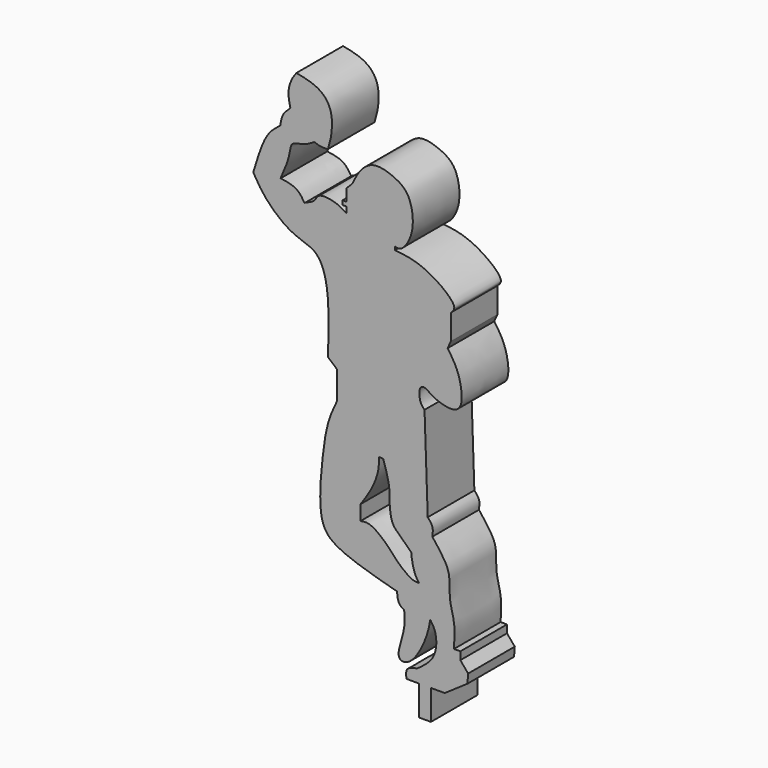
from build123d import *

# Parameters (mm, degrees)
F0_W     = 1.2808465399
F0_H     = 3.2528243028
F1_DEPTH = 6.34


with BuildPart() as f1:
    # F0 (on Front) → F1 (new body)
    with BuildSketch(Plane.XZ):
        with BuildLine():
            add(Edge.make_bspline(
                [(-6.7776860669, 1.3776483247), (-7.2234603457, 1.2909326007), (-8.0743075484, 1.125418719), (-7.9850199205, 0.3629822004), (-7.9425117001, 0)],
                knots=[0, 0, 0, 0, 0.5239181341, 1, 1, 1, 1], degree=3))
            Line((-7.9425117001, 0), (-6.5613263287, 0))
            Line((-6.5613263287, 0), (-5.2804797888, 0))
            Line((-5.2804797888, 0), (-3.7796341348, 0))
            Line((-3.7796341348, 0), (-1.3127436396, 1.6925429227))
            Line((-1.3127436396, 1.6925429227), (-1.2356528314, 2.6947180741))
            Line((-1.2356528314, 2.6947180741), (-2.0836470649, 3.696893109))
            Line((-2.0836470649, 3.696893109), (-2.0836470649, 4.5448862948))
            Line((-2.0836470649, 4.5448862948), (-2.7774595656, 4.5448862948))
            add(Edge.make_bspline(
                [(-2.7774595656, 4.5448862948), (-2.7222918755, 5.4227665899), (-2.6171633368, 7.095671009), (-3.3418714879, 9.0647313949), (-3.1895937315, 11.1185620313), (-3.5661824677, 12.5226659789), (-4.5589625844, 13.7968401), (-5.1287151873, 14.528083615)],
                knots=[0, 0, 0, 0, 0.2208538869, 0.4208631238, 0.6150791168, 0.7790954196, 1, 1, 1, 1], degree=3))
            add(Edge.make_bspline(
                [(-5.1287151873, 14.528083615), (-5.0843041296, 14.8663420012), (-4.9972753618, 15.5291996788), (-5.4218763651, 15.9956514421), (-5.6298021227, 16.2240713835)],
                knots=[0, 0, 0, 0, 0.5103031883, 1, 1, 1, 1], degree=3))
            Line((-5.6298021227, 16.2240713835), (-5.9767086059, 26.3999961317))
            add(Edge.make_bspline(
                [(-5.9767086059, 26.3999961317), (-6.1345706405, 26.5459935085), (-6.5090194045, 26.892299303), (-6.6380961915, 28.4273694482), (-5.8892792504, 28.6339642055), (-5.0967846196, 27.8496412338), (-2.9462288603, 27.1864042532), (-1.6935919751, 28.0392956056), (-2.1433240874, 31.2088312454), (-3.0434896338, 32.4954295626), (-3.4712727647, 33.1068560481)],
                knots=[0, 0, 0, 0, 0.0887577471, 0.2105333863, 0.2847342937, 0.393212341, 0.5469207023, 0.6596399946, 0.8382516756, 1, 1, 1, 1], degree=3))
            Line((-3.4712727647, 33.1068560481), (-3.1125457026, 33.8876135647))
            Line((-3.1125457026, 33.8876135647), (-3.1125457026, 36.6379059851))
            add(Edge.make_bspline(
                [(-3.1125457026, 36.6379059851), (-2.9242706246, 36.816100008), (-2.424179038, 37.2894145462), (-4.0468332885, 38.9269143997), (-6.759011061, 40.3903422302), (-8.4321410003, 40.5511578163), (-9.2090247199, 40.6258292496)],
                knots=[0, 0, 0, 0, 0.1501364865, 0.3987888069, 0.7208398601, 1, 1, 1, 1], degree=3))
            Line((-9.2090247199, 40.6258292496), (-9.2090247199, 40.9925356507))
            add(Edge.make_bspline(
                [(-9.2090247199, 40.9925356507), (-9.0042836623, 40.9378253354), (-8.4149612837, 40.7803483081), (-6.9474231725, 42.9394160939), (-7.4419385897, 46.4591291567), (-9.1064865307, 47.6192620157), (-11.6272430043, 48.4378875285), (-13.1998511262, 46.8659793565), (-13.6052353603, 45.9530216087), (-13.7928435579, 45.530512929)],
                knots=[0, 0, 0, 0, 0.0826928045, 0.2380212391, 0.4274132015, 0.571526221, 0.7308515859, 0.8754405213, 1, 1, 1, 1], degree=3))
            Line((-13.7928435579, 45.530512929), (-14.4804157317, 44.8429398239))
            Line((-14.4804157317, 44.8429398239), (-14.4804157317, 43.5594730079))
            Line((-14.4804157317, 43.5594730079), (-14.8929599673, 43.5594730079))
            Line((-14.8929599673, 43.5594730079), (-14.8929599673, 43.1010909379))
            Line((-14.8929599673, 43.1010909379), (-14.4804157317, 43.1010909379))
            Line((-14.4804157317, 43.1010909379), (-14.4804157317, 42.4593538046))
            add(Edge.make_bspline(
                [(-14.4804157317, 42.4593538046), (-14.8571961778, 42.699844745), (-15.6436727796, 43.2018360228), (-17.6518789594, 43.4153809515), (-17.8380897009, 42.3469828314), (-18.9262205482, 42.0669953128), (-19.0183967352, 41.9551357627)],
                knots=[0, 0, 0, 0, 0.2495868987, 0.5209778212, 0.7197200287, 0.9369146526, 0.9369146526, 0.9369146526, 0.9369146526], degree=3))
            add(Edge.make_bspline(
                [(-19.0183967352, 41.9551357627), (-19.2771846319, 42.3572771528), (-19.8261713987, 43.2103707651), (-21.0069857299, 43.3787766294), (-21.6311737895, 43.467797339)],
                knots=[0, 0, 0, 0, 0.4713918665, 1, 1, 1, 1], degree=3))
            add(Edge.make_bspline(
                [(-21.6311737895, 43.467797339), (-21.261176445, 44.3217445242), (-20.6419167076, 45.7509848081), (-20.5443555782, 47.0749587473), (-20.0721625641, 47.3698835796), (-18.9532225125, 47.5267016677), (-18.2985894995, 47.9347867053), (-17.964117229, 48.1432899833)],
                knots=[0, 0, 0, 0, 0.2925402351, 0.489620782, 0.612532734, 0.8020309798, 1, 1, 1, 1], degree=3))
            add(Edge.make_bspline(
                [(-17.964117229, 48.1432899833), (-17.7283110743, 48.0565091036), (-17.2540926878, 47.8819882614), (-16.7417068114, 47.917122863), (-16.4841059595, 47.9347867053)],
                knots=[0, 0, 0, 0, 0.4972522394, 1, 1, 1, 1], degree=3))
            add(Edge.make_bspline(
                [(-16.4841059595, 47.9347867053), (-16.3508402803, 48.3747236264), (-16.0544834787, 49.3530572801), (-15.9482535449, 51.6243077123), (-16.93973462, 53.1586117555), (-18.4586786752, 53.842507887), (-19.437907688, 54.0207635328), (-19.9183057994, 54.1082136333)],
                knots=[0, 0, 0, 0, 0.186962934, 0.4157689921, 0.6180052423, 0.8125979135, 1, 1, 1, 1], degree=3))
            add(Edge.make_bspline(
                [(-19.9183057994, 54.1082136333), (-20.0892704668, 53.8754460058), (-20.4671656101, 53.3609434641), (-20.8945875679, 52.0398497722), (-20.6824038605, 51.0504799491), (-20.5724388361, 50.5377352238)],
                knots=[0, 0, 0, 0, 0.284700429, 0.6292932395, 1, 1, 1, 1], degree=3))
            add(Edge.make_bspline(
                [(-20.5724388361, 50.5377352238), (-20.8767073715, 50.2578751595), (-21.4800686114, 49.7029156559), (-21.6021464823, 48.9125958799), (-21.6626618057, 48.5208258033)],
                knots=[0, 0, 0, 0, 0.5042891642, 1, 1, 1, 1], degree=3))
            add(Edge.make_bspline(
                [(-21.6626618057, 48.5208258033), (-22.0911120554, 48.1806338043), (-22.9883761393, 47.4682008845), (-23.8278366025, 45.6306762926), (-24.3330200442, 43.9686563308), (-24.6062595397, 43.069716543)],
                knots=[0, 0, 0, 0, 0.295575469, 0.6189966107, 1, 1, 1, 1], degree=3))
            add(Edge.make_bspline(
                [(-24.6062595397, 43.069716543), (-24.2088613706, 42.3943300533), (-23.3573277559, 40.9471308877), (-20.8834350039, 38.796575858), (-19.092937599, 38.2207451839), (-17.8771301181, 37.7588553364), (-16.9223054993, 36.5178417531), (-16.304212218, 33.4348004163), (-16.4183104534, 30.0145111495), (-16.4841059595, 28.042178601)],
                knots=[0, 0, 0, 0, 0.1414851406, 0.303170378, 0.4261666022, 0.5250294059, 0.6315409101, 0.7875256158, 1, 1, 1, 1], degree=3))
            Line((-16.4841059595, 28.042178601), (-15.4783679172, 27.1670408547))
            Line((-15.4783679172, 27.1670408547), (-15.4783679172, 24.1778809577))
            add(Edge.make_bspline(
                [(-15.4783679172, 24.1778809577), (-15.819948896, 23.4628340345), (-16.6054142494, 21.818583859), (-17.160909052, 17.8298393788), (-17.5813935603, 12.1158867751), (-15.573659095, 9.8434809807), (-11.4976484067, 8.7314972431), (-8.9733516797, 8.0428393558)],
                knots=[0, 0, 0, 0, 0.1543664225, 0.3549655401, 0.5849931188, 0.7429838654, 1, 1, 1, 1], degree=3))
            add(Edge.make_bspline(
                [(-8.9733516797, 8.0428393558), (-8.9334954044, 7.6382117185), (-8.8615238429, 6.9075442728), (-8.395744175, 6.6286117251), (-8.1879030913, 6.5041459166)],
                knots=[0, 0, 0, 0, 0.5537781103, 1, 1, 1, 1], degree=3))
            add(Edge.make_bspline(
                [(-8.1879030913, 6.5041459166), (-8.1484120775, 5.9702080713), (-8.0662376236, 4.8591692129), (-8.6706458584, 3.0967752673), (-8.8994119275, 1.8708309777), (-8.3803766729, 1.402193652), (-7.1065827749, 1.8585570796), (-5.6813956349, 4.6532572148), (-5.4535982924, 5.9384340625), (-5.3533259779, 6.5041459166)],
                knots=[0, 0, 0, 0, 0.1482015961, 0.3083837071, 0.4326583064, 0.5137610087, 0.6361003484, 0.8398178842, 1, 1, 1, 1], degree=3))
            add(Edge.make_bspline(
                [(-5.3533259779, 6.5041459166), (-5.1441952315, 6.208622874), (-4.6439717987, 5.5017562207), (-4.6302443302, 2.9305348325), (-6.0475197284, 1.9056558772), (-6.7776860669, 1.3776483247)],
                knots=[0, 0, 0, 0, 0.2583273038, 0.6178975253, 1, 1, 1, 1], degree=3))
        make_face()
        with BuildLine():
            add(Edge.make_bspline(
                [(-10.9020192176, 20.2647801489), (-10.9163398693, 19.7825054325), (-10.9477882284, 18.7234231482), (-11.8113882763, 16.6986290351), (-12.5727067901, 15.6247452688), (-12.9449125379, 15.0997275487)],
                knots=[0, 0, 0, 0, 0.2993956384, 0.6574771719, 1, 1, 1, 1], degree=3))
            Line((-10.9020192176, 20.2647801489), (-10.4780225083, 20.2647801489))
            add(Edge.make_bspline(
                [(-7.3944088072, 12.2473854572), (-7.8188548307, 12.6909915122), (-8.5996044275, 13.5069851355), (-9.6314978263, 14.2844156033), (-9.8279951055, 16.5550906501), (-9.7515163015, 18.0322112447), (-10.220018893, 19.4719295947), (-10.4780225083, 20.2647801489)],
                knots=[0, 0, 0, 0, 0.1986847623, 0.3654717901, 0.5839980475, 0.7709084012, 1, 1, 1, 1], degree=3))
            add(Edge.make_bspline(
                [(-6.584960036, 9.626314044), (-6.7772077658, 9.8949634142), (-7.1971655786, 10.5135634703), (-7.441410096, 12.1917721213), (-7.4069225229, 12.2413560748), (-7.3944088072, 12.2473854572)],
                knots=[0, 0, 0, 0, 0.4259273593, 0.9186271459, 1, 1, 1, 1], degree=3))
            add(Edge.make_bspline(
                [(-12.9449125379, 13.4808309376), (-12.6359389461, 13.5427933983), (-11.8567554088, 13.6990531258), (-9.920582259, 12.1197704522), (-8.9324353041, 10.8011768775), (-7.310806571, 9.5896443746), (-6.781723916, 9.6163735592), (-6.584960036, 9.626314044)],
                knots=[0, 0, 0, 0, 0.1649126046, 0.415884043, 0.640198903, 0.8661913045, 1, 1, 1, 1], degree=3))
            Line((-12.9449125379, 13.4808309376), (-12.9449125379, 15.0997275487))
        make_face(mode=Mode.SUBTRACT)
        with Locations((-5.9209030587, -1.6264121514)):
            Rectangle(F0_W, F0_H)
    extrude(amount=-F1_DEPTH)


solid = f1.part
